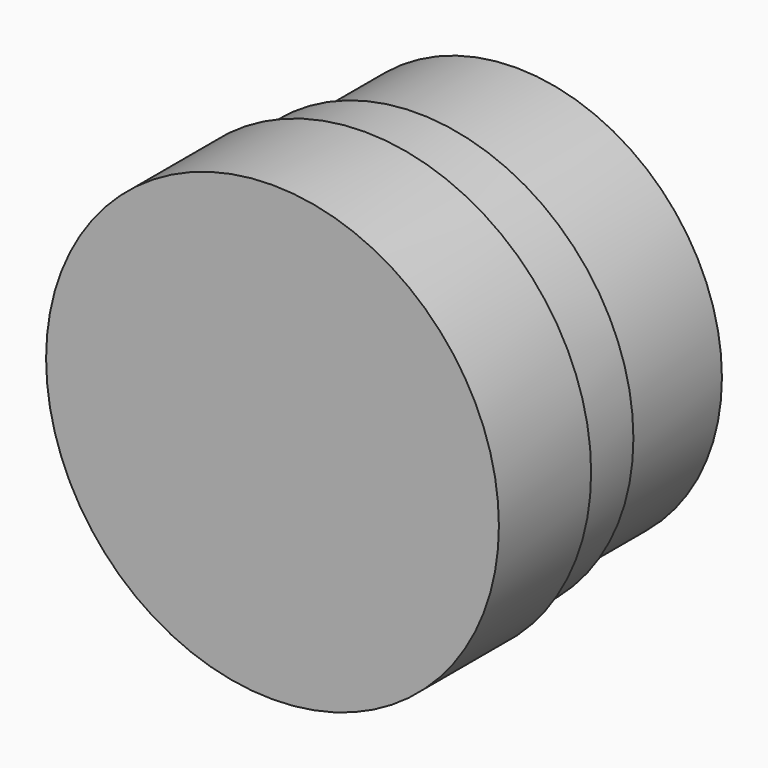
from build123d import *

# Parameters (mm, degrees)
SKETCH_R             = 55
PAD_DEPTH            = 28
SKETCH001_R          = 52.5
PAD001_DEPTH         = 16
SKETCH012_R          = 50
PAD005_DEPTH         = 30
BODY_PLACEMENT_ANGLE = 90


with BuildPart() as part:
    # Sketch → Pad (new body)
    with BuildSketch(Plane.XY):
        with Locations((0.027552, 0)):
            Circle(SKETCH_R)
    extrude(amount=PAD_DEPTH)

    # Sketch001 (on Face3 of Pad) → Pad001 (join)
    with BuildSketch(Plane.XY.offset(28)):
        Circle(SKETCH001_R)
    extrude(amount=PAD001_DEPTH)

    # Sketch012 (on Face5 of Pad001) → Pad005 (join)
    with BuildSketch(Plane.XY.offset(44)):
        Circle(SKETCH012_R)
    extrude(amount=PAD005_DEPTH)


with BuildPart() as part_1:
    # Body placement: moved
    add(part.part.moved(Location((0, -23, 0))).rotate(Axis((0, -23, 0), (-1, 0, 0)), BODY_PLACEMENT_ANGLE))


solid = part_1.part
